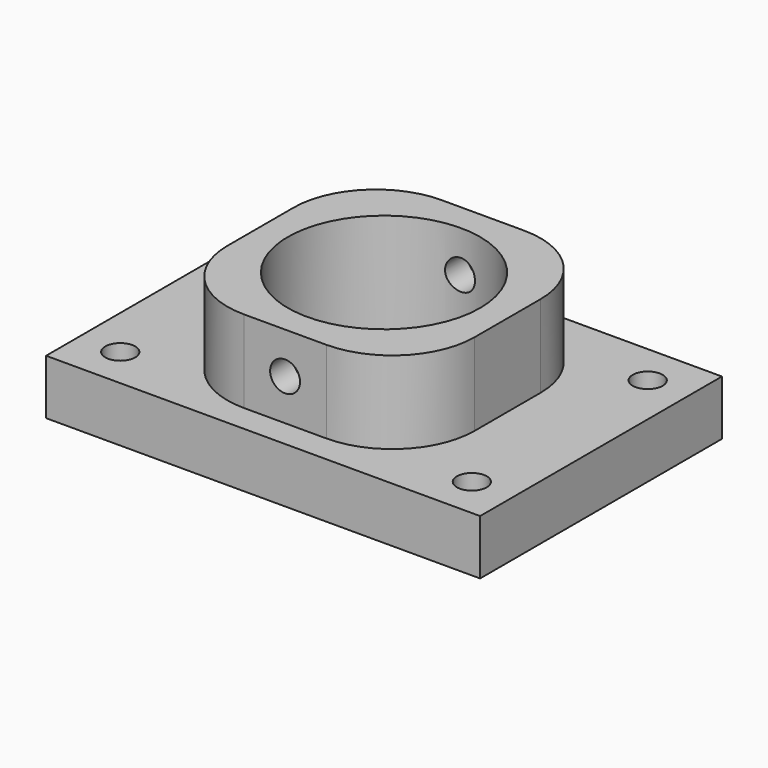
from build123d import *

# Parameters (mm, degrees)
F0_W     = 50.147576
F0_H     = 34.925
F0_R     = 1.7272
F0_R_2   = 11.1125
F1_DEPTH = 6.35
F2_W     = 28.575
F2_H     = 28.575
F2_R     = 11.1125
F3_DEPTH = 9.525
F4_R     = 1.7272
F5_DEPTH = 28.575
F6_R     = 9.525


with BuildPart() as f1:
    # F0 (on Top) → F1 (new body)
    with BuildSketch(Plane.XY):
        Rectangle(F0_W, F0_H)
        with Locations((-20.311288, -12.7)):
            Circle(F0_R, mode=Mode.SUBTRACT)
        with Locations((20.311288, -12.7)):
            Circle(F0_R, mode=Mode.SUBTRACT)
        with Locations((-20.311288, 12.7)):
            Circle(F0_R, mode=Mode.SUBTRACT)
        Circle(F0_R_2, mode=Mode.SUBTRACT)
        with Locations((20.311288, 12.7)):
            Circle(F0_R, mode=Mode.SUBTRACT)
    extrude(amount=F1_DEPTH)

    # F2 (on face) → F3 (join)
    with BuildSketch(Plane.XY.offset(6.35)):
        Rectangle(F2_W, F2_H)
        Circle(F2_R, mode=Mode.SUBTRACT)
    extrude(amount=F3_DEPTH)

    # F4 (on face) → F5 (cut, through all)
    with BuildSketch(Plane(origin=(0, 14.2875, 0), x_dir=(-1, 0, 0), z_dir=(0, 1, 0))):
        with Locations((0, 11.1125)):
            Circle(F4_R)
    extrude(amount=-F5_DEPTH, mode=Mode.SUBTRACT)

    # F6
    f6_edges = [f1.edges().sort_by_distance(p)[0] for p in [
        (-14.2875, -14.2875, 11.1125),
        (14.2875, -14.2875, 11.1125),
        (14.2875, 14.2875, 11.1125),
        (-14.2875, 14.2875, 11.1125),
    ]]
    fillet(f6_edges, radius=F6_R)


solid = f1.part
